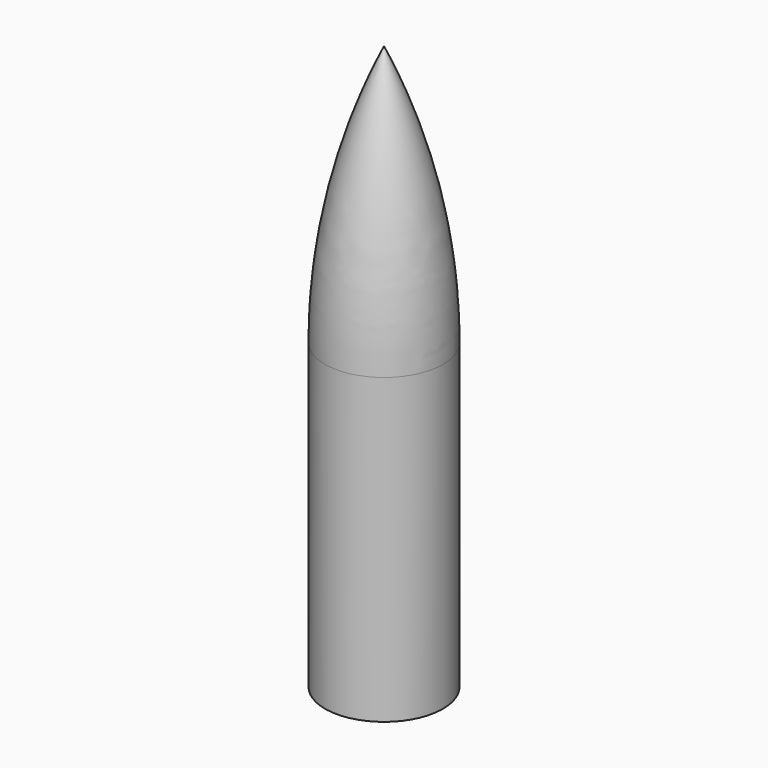
from build123d import *


with BuildPart() as f1:
    # F0 (on Right) → F1 (revolve)
    with BuildSketch(Plane.YZ):
        with BuildLine():
            Line((0, 64), (0, 0))
            Line((0, 0), (4, 0))
            Line((4, 0), (4, 21.606004))
            ThreePointArc((4, 21.606004), (4.82696, 27.865445), (7.251094, 33.69537))
            ThreePointArc((7.251094, 33.69537), (8.555142, 36.831543), (9, 40.19877))
            Line((9, 40.19877), (9, 55))
            ThreePointArc((9, 55), (6.363961, 61.363961), (0, 64))
        make_face()
    revolve(axis=Axis((0, 0, 32), (0, 0, 1)))

    # F2 (on Right) → F3 (revolve)
    with BuildSketch(Plane.YZ):
        with BuildLine():
            Line((0, 110.042736), (0, 65.569966))
            Line((0, 65.569966), (9.5, 59.711089))
            Line((9.5, 59.711089), (9.5, 0))
            Line((9.5, 0), (11.5, 0))
            Line((11.5, 0), (11.5, 59.130315))
            ThreePointArc((11.5, 59.130315), (8.589235, 85.227846), (0, 110.042736))
        make_face()
    revolve(axis=Axis((0, 0, 55.021368), (0, 0, 1)))


solid = f1.part
